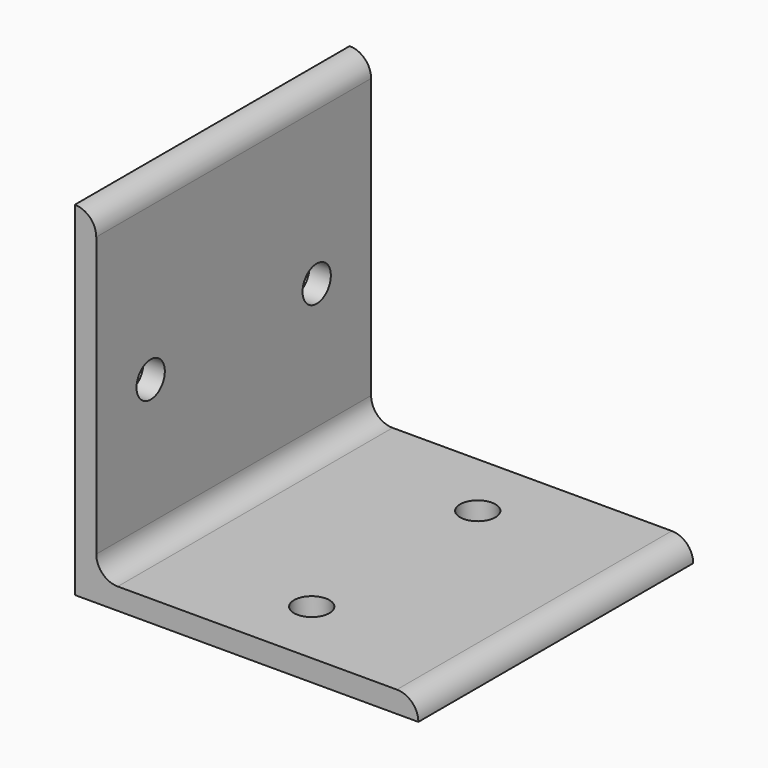
from build123d import *

# Parameters (mm, degrees)
F1_DEPTH = 50.8
F2_R     = 2.6162
F3_DEPTH = 3.176
F4_R     = 2.6162
F5_DEPTH = 50.801


with BuildPart() as f1:
    # F0 (on Front) → F1 (new body)
    with BuildSketch(Plane.XZ):
        with BuildLine():
            Line((-50.8, 0), (0, 0))
            ThreePointArc((0, 0), (-0.929936, 2.245064), (-3.175, 3.175))
            Line((-3.175, 3.175), (-44.45, 3.175))
            ThreePointArc((-44.45, 3.175), (-46.695064, 4.104936), (-47.625, 6.35))
            Line((-47.625, 6.35), (-47.625, 47.625))
            ThreePointArc((-47.625, 47.625), (-48.554936, 49.870064), (-50.8, 50.8))
            Line((-50.8, 50.8), (-50.8, 0))
        make_face()
    extrude(amount=F1_DEPTH)

    # F2 (on face) → F3 (cut, through all)
    with BuildSketch(Plane.XY.offset(3.175)):
        with Locations((-23.8125, -40.7416)):
            Circle(F2_R)
        with Locations((-23.8125, -10.0584)):
            Circle(F2_R)
    extrude(amount=-F3_DEPTH, mode=Mode.SUBTRACT)

    # F4 (on face) → F5 (cut, through all)
    with BuildSketch(Plane(origin=(-50.8, 0, 0), x_dir=(0, -1, 0), z_dir=(-1, 0, 0))):
        with Locations((10.0584, 25)):
            Circle(F4_R)
        with Locations((40.7416, 25)):
            Circle(F4_R)
    extrude(amount=-F5_DEPTH, mode=Mode.SUBTRACT)


solid = f1.part
